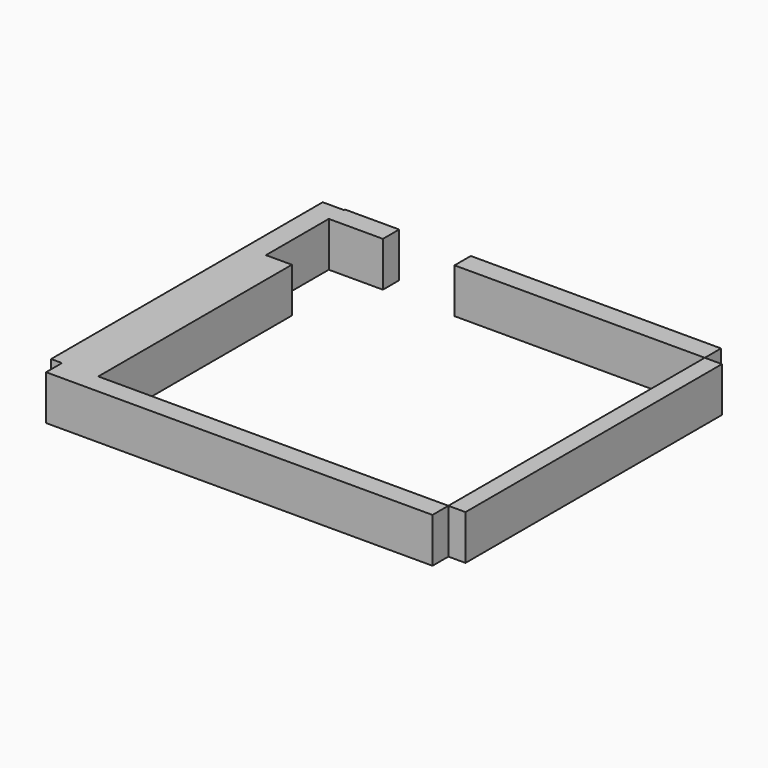
from build123d import *

# Parameters (mm, degrees)
F0_W     = 191.385146
F0_H     = 3580
F0_W_2   = 2795.303167
F0_H_2   = 226.821689
F0_W_3   = 289.722764
F0_H_3   = 2702.683553
F1_DEPTH = 500


with BuildPart() as f1:
    # F0 (on Top) → F1 (new body)
    with BuildSketch(Plane.XY):
        with Locations((143.231677, 1746.705466)):
            Rectangle(F0_W, F0_H)
        with Locations((-1350.11248, 3650.11631)):
            Rectangle(F0_W_2, F0_H_2)
        Polygon((-4152.460896, 3749.511003), (-4152.460896, 3536.705466), (-3640.583038, 3536.705466), (-3547.764063, 3536.705466), (-3547.764063, 3763.527155), (-4152.460896, 3763.527155), align=None)
        Polygon((-3862.738132, -43.294534), (-4152.460896, -43.294534), (-4268.571854, -43.294534), (-4268.571854, -265.20282), (47.539104, -265.20282), (47.539104, -43.294534), align=None)
        Polygon((-4152.460896, 2659.389019), (-4152.460896, 3536.705466), (-4152.460896, 3749.511003), (-4390.160084, 3749.511003), (-4390.160084, -43.294534), (-4268.571854, -43.294534), (-4152.460896, -43.294534), align=None)
        with Locations((-4007.599514, 1308.047242)):
            Rectangle(F0_W_3, F0_H_3)
    extrude(amount=F1_DEPTH)


solid = f1.part
